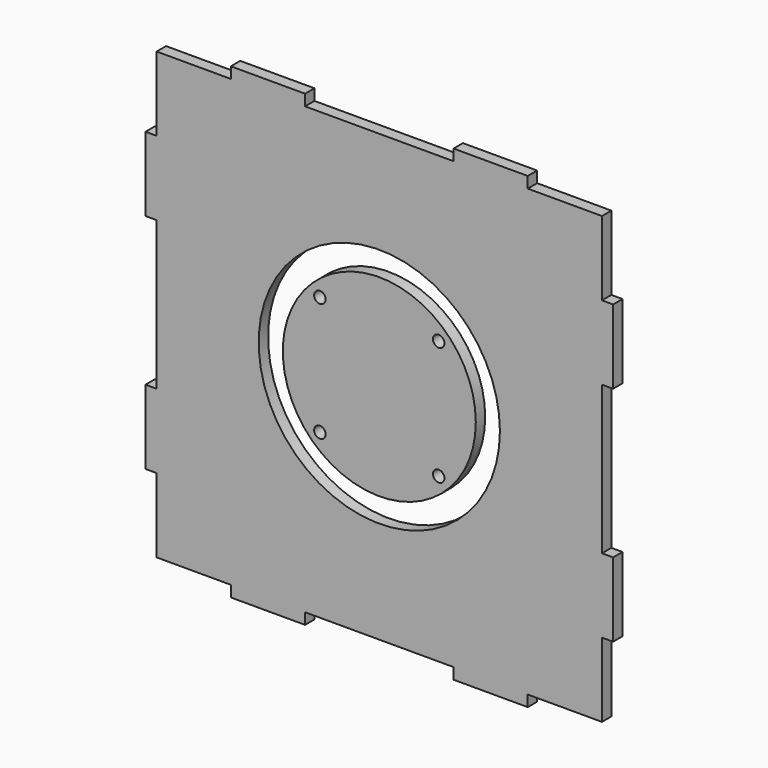
from build123d import *

# Parameters (mm, degrees)
F0_R     = 32.5
F1_DEPTH = 1.585
F0_R_2   = 26
F0_R_3   = 1.55
F2_DEPTH = 1.585


with BuildPart() as f1:
    # F0 (on Front) → F1 (new body, symmetric)
    with BuildSketch(Plane.XZ):
        Polygon((20, 60), (0, 60), (-20, 60), (-20, 63), (-40, 63), (-40, 60), (-60, 60), (-60, 40), (-63, 40), (-63, 20), (-60, 20), (-60, 0), (-60, -20), (-63, -20), (-63, -40), (-60, -40), (-60, -60), (-40, -60), (-40, -63), (-20, -63), (-20, -60), (0, -60), (20, -60), (20, -63), (40, -63), (40, -60), (60, -60), (60, -40), (63, -40), (63, -20), (60, -20), (60, 0), (60, 20), (63, 20), (63, 40), (60, 40), (60, 60), (40, 60), (40, 63), (20, 63), align=None)
        Circle(F0_R, mode=Mode.SUBTRACT)
    extrude(amount=F1_DEPTH, both=True)


with BuildPart() as f2:
    # F0 (on Front) → F2 (new body, symmetric)
    with BuildSketch(Plane.XZ):
        Circle(F0_R_2)
        with Locations((-16, -16)):
            Circle(F0_R_3, mode=Mode.SUBTRACT)
        with Locations((16, -16)):
            Circle(F0_R_3, mode=Mode.SUBTRACT)
        with Locations((-16, 16)):
            Circle(F0_R_3, mode=Mode.SUBTRACT)
        with Locations((16, 16)):
            Circle(F0_R_3, mode=Mode.SUBTRACT)
    extrude(amount=F2_DEPTH, both=True)


solid = Compound([f1.part, f2.part])
